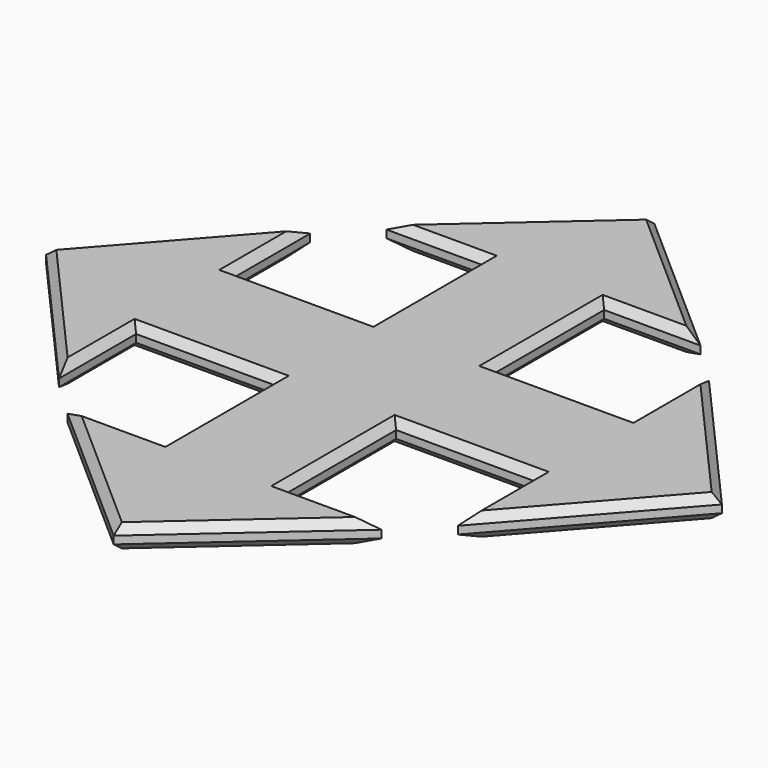
from build123d import *

# Parameters (mm, degrees)
PAD_DEPTH                = 3
CHAMFER_SIZE             = 1
CHAMFER001_SIZE          = 1
BODY001_PLACEMENT_ANGLE  = 90
CLONE001_PLACEMENT_ANGLE = 90
BODY002_PLACEMENT_ANGLE  = 270
CLONE002_PLACEMENT_ANGLE = 270
BODY003_PLACEMENT_ANGLE  = 180


with BuildPart() as body:
    # Sketch → Pad (new body)
    with BuildSketch(Plane.XY):
        Polygon((-16.899492, 7.879108), (-16.899492, -7.879108), (16.899492, -7.879108), (16.899492, -20.39575), (34.896271, 0), (16.899492, 20.39575), (16.899492, 7.879108), align=None)
    extrude(amount=PAD_DEPTH)

    # Chamfer
    chamfer_edges = [body.edges().sort_by_distance(p)[0] for p in [
        (-16.899492, 0, 3),
        (0, -7.879108, 3),
        (16.899492, -14.137429, 3),
        (25.897881, -10.197875, 3),
        (25.897881, 10.197875, 3),
        (16.899492, 14.137429, 3),
        (0, 7.879108, 3),
    ]]
    chamfer(chamfer_edges, length=CHAMFER_SIZE)

    # Chamfer001
    chamfer001_edges = [body.edges().sort_by_distance(p)[0] for p in [
        (-16.899492, 0, 0),
        (0, -7.879108, 0),
        (16.899492, -14.137429, 0),
        (25.897881, -10.197875, 0),
        (25.897881, 10.197875, 0),
        (16.899492, 14.137429, 0),
        (0, 7.879108, 0),
    ]]
    chamfer(chamfer001_edges, length=CHAMFER001_SIZE)


with BuildPart() as body001:
    # Body001 base: copy of Body
    add(body.part)


with BuildPart() as body001_1:
    # Body001 placement: moved
    add(body001.part.moved(Location((-9, 9, 0))).rotate(Axis((-9, 9, 0), (0, 0, 1)), BODY001_PLACEMENT_ANGLE))


with BuildPart() as body002:
    # Body002 base: copy of Body001
    add(body001_1.part)


with BuildPart() as body002_1:
    # Clone001 placement: moved
    add(body002.part.moved(Location((-9, -9, 0))).rotate(Axis((-9, -9, 0), (0, 0, -1)), CLONE001_PLACEMENT_ANGLE))


with BuildPart() as body002_2:
    # Body002 placement: moved
    add(body002_1.part.moved(Location((-9, -9, 0))).rotate(Axis((-9, -9, 0), (0, 0, 1)), BODY002_PLACEMENT_ANGLE))


with BuildPart() as body003:
    # Body003 base: copy of Body002
    add(body002_2.part)


with BuildPart() as body003_1:
    # Clone002 placement: moved
    add(body003.part.moved(Location((-9, 9, 0))).rotate(Axis((-9, 9, 0), (0, 0, -1)), CLONE002_PLACEMENT_ANGLE))


with BuildPart() as body003_2:
    # Body003 placement: moved
    add(body003_1.part.moved(Location((-18, 0, 0))).rotate(Axis((-18, 0, 0), (0, 0, 1)), BODY003_PLACEMENT_ANGLE))


with BuildPart() as fusion:
    # Fusion base: copy of Body
    add(body.part)

    # Fusion: union Body001, Body002, Body003
    add(body001_1.part)
    add(body002_2.part)
    add(body003_2.part)


solid = fusion.part
